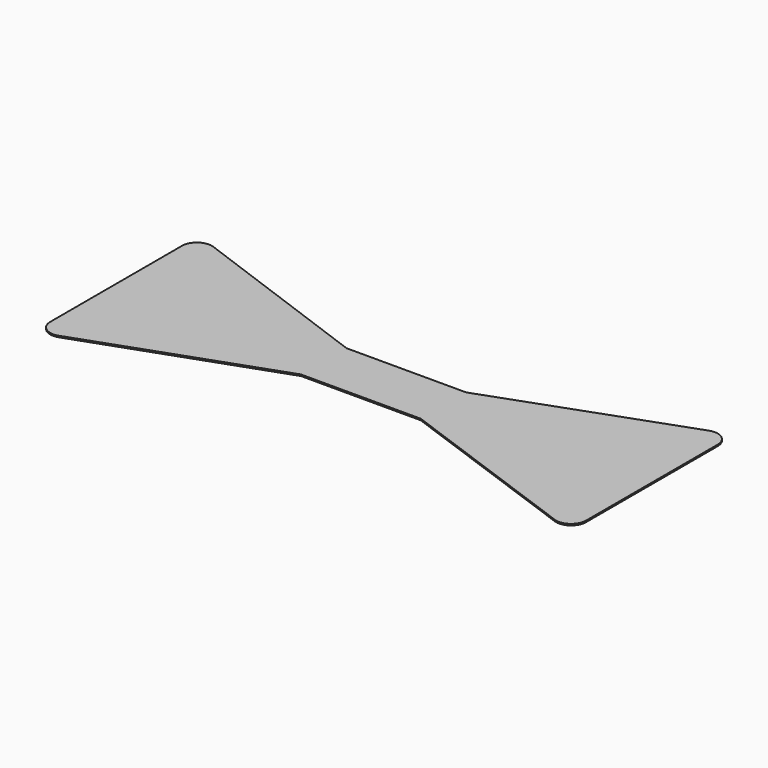
from build123d import *

# Parameters (mm, degrees)
F0_W     = 25.4
F0_H     = 12.065
F1_DEPTH = 0.3048


with BuildPart() as f1:
    # F0 (on Top) → F1 (new body)
    with BuildSketch(Plane.XY):
        with Locations((0, -0.635)):
            Rectangle(F0_W, F0_H)
        with BuildLine():
            Line((52.643894, 19.802554), (12.7, 5.3975))
            Line((12.7, 5.3975), (12.7, -6.6675))
            Line((12.7, -6.6675), (52.643894, -21.072554))
            ThreePointArc((52.643894, -21.072554), (55.54594, -20.683957), (56.896, -18.085839))
            Line((56.896, -18.085839), (56.896, -0.635))
            Line((56.896, -0.635), (56.896, 16.815839))
            ThreePointArc((56.896, 16.815839), (55.54594, 19.413957), (52.643894, 19.802554))
        make_face()
        with BuildLine():
            Line((-12.7, -6.6675), (-12.7, 5.3975))
            Line((-12.7, 5.3975), (-52.629368, 20.017363))
            ThreePointArc((-52.629368, 20.017363), (-55.539611, 19.638479), (-56.896, 17.035927))
            Line((-56.896, 17.035927), (-56.896, -0.391439))
            Line((-56.896, -0.391439), (-56.896, -17.86567))
            ThreePointArc((-56.896, -17.86567), (-55.552281, -20.459323), (-52.658498, -20.857612))
            Line((-52.658498, -20.857612), (-12.7, -6.6675))
        make_face()
    extrude(amount=F1_DEPTH)


solid = f1.part
